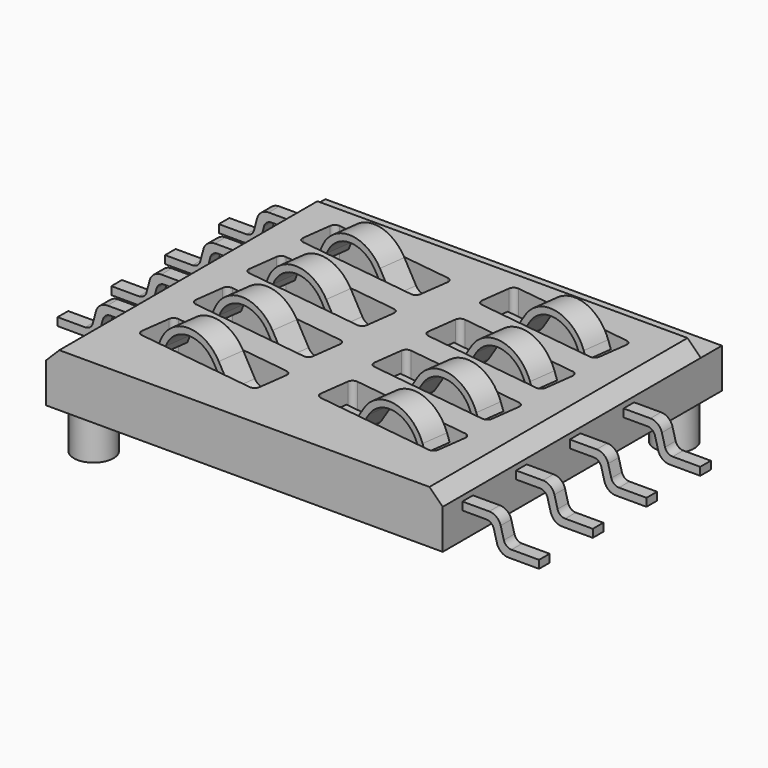
from build123d import *

# Parameters (mm, degrees)
SKETCH_W                = 15
SKETCH_H                = 13.2
PAD_DEPTH               = 2
SKETCH001_R             = 0.75
PAD001_DEPTH            = 1.6
SKETCH002_W             = 15
SKETCH002_H             = 2
POCKET_DEPTH            = 0.5
CHAMFER_SIZE            = 0.5
PAD018_DEPTH            = 0.25
PAD019_DEPTH            = 0.25
PAD020_DEPTH            = 0.25
PAD021_DEPTH            = 0.25
PAD022_DEPTH            = 0.25
BODY021_PLACEMENT_ANGLE = 180
PAD023_DEPTH            = 0.25
BODY022_PLACEMENT_ANGLE = 180
PAD024_DEPTH            = 0.25
BODY023_PLACEMENT_ANGLE = 180
PAD025_DEPTH            = 0.25
BODY024_PLACEMENT_ANGLE = 180
PAD026_DEPTH            = 0.5
BODY025_PLACEMENT_ANGLE = 352.5
PAD027_DEPTH            = 0.5
BODY026_PLACEMENT_ANGLE = 7.5
PAD028_DEPTH            = 0.5
BODY027_PLACEMENT_ANGLE = 7.5
PAD029_DEPTH            = 0.5
BODY028_PLACEMENT_ANGLE = 7.5
PAD030_DEPTH            = 0.5
BODY029_PLACEMENT_ANGLE = 187.5
PAD031_DEPTH            = 0.5
BODY030_PLACEMENT_ANGLE = 172.5
PAD032_DEPTH            = 0.5
BODY031_PLACEMENT_ANGLE = 172.5
PAD033_DEPTH            = 0.5
BODY032_PLACEMENT_ANGLE = 172.5


with BuildPart() as plasticblock_body:
    # Sketch → Pad (new body)
    with BuildSketch(Plane.XY):
        Rectangle(SKETCH_W, SKETCH_H)
        with BuildLine():
            Line((1.131849, -2.670943), (5.692495, -3.271363))
            ThreePointArc((5.864679, -3.495758), (5.825061, -3.3479), (5.692495, -3.271363))
            Line((5.864679, -3.495758), (5.7211, -4.586347))
            ThreePointArc((5.496706, -4.758531), (5.644564, -4.718912), (5.7211, -4.586347))
            Line((5.496706, -4.758531), (0.93606, -4.15811))
            ThreePointArc((0.763876, -3.933716), (0.803494, -4.081574), (0.93606, -4.15811))
            Line((0.763876, -3.933716), (0.907455, -2.843127))
            ThreePointArc((1.131849, -2.670943), (0.983992, -2.710561), (0.907455, -2.843127))
        make_face(mode=Mode.SUBTRACT)
        with BuildLine():
            Line((1.131849, -0.130943), (5.692495, -0.731363))
            ThreePointArc((5.864679, -0.955758), (5.825061, -0.8079), (5.692495, -0.731363))
            Line((5.864679, -0.955758), (5.7211, -2.046347))
            ThreePointArc((5.496706, -2.218531), (5.644564, -2.178912), (5.7211, -2.046347))
            Line((5.496706, -2.218531), (0.93606, -1.61811))
            ThreePointArc((0.763876, -1.393716), (0.803494, -1.541574), (0.93606, -1.61811))
            Line((0.763876, -1.393716), (0.907455, -0.303127))
            ThreePointArc((1.131849, -0.130943), (0.983992, -0.170561), (0.907455, -0.303127))
        make_face(mode=Mode.SUBTRACT)
        with BuildLine():
            Line((1.131849, 2.409057), (5.692495, 1.808637))
            ThreePointArc((5.864679, 1.584242), (5.825061, 1.7321), (5.692495, 1.808637))
            Line((5.864679, 1.584242), (5.7211, 0.493653))
            ThreePointArc((5.496706, 0.321469), (5.644564, 0.361088), (5.7211, 0.493653))
            Line((5.496706, 0.321469), (0.93606, 0.92189))
            ThreePointArc((0.763876, 1.146284), (0.803494, 0.998426), (0.93606, 0.92189))
            Line((0.763876, 1.146284), (0.907455, 2.236873))
            ThreePointArc((1.131849, 2.409057), (0.983992, 2.369439), (0.907455, 2.236873))
        make_face(mode=Mode.SUBTRACT)
        with BuildLine():
            Line((1.131849, 4.949057), (5.692495, 4.348637))
            ThreePointArc((5.864679, 4.124242), (5.825061, 4.2721), (5.692495, 4.348637))
            Line((5.864679, 4.124242), (5.7211, 3.033653))
            ThreePointArc((5.496706, 2.861469), (5.644564, 2.901088), (5.7211, 3.033653))
            Line((5.496706, 2.861469), (0.93606, 3.46189))
            ThreePointArc((0.763876, 3.686284), (0.803494, 3.538426), (0.93606, 3.46189))
            Line((0.763876, 3.686284), (0.907455, 4.776873))
            ThreePointArc((1.131849, 4.949057), (0.983992, 4.909439), (0.907455, 4.776873))
        make_face(mode=Mode.SUBTRACT)
        with BuildLine():
            Line((-5.496706, -2.841469), (-0.93606, -3.44189))
            ThreePointArc((-0.763876, -3.666284), (-0.803494, -3.518426), (-0.93606, -3.44189))
            Line((-0.763876, -3.666284), (-0.907455, -4.756873))
            ThreePointArc((-1.131849, -4.929057), (-0.983992, -4.889439), (-0.907455, -4.756873))
            Line((-1.131849, -4.929057), (-5.692495, -4.328637))
            ThreePointArc((-5.864679, -4.104242), (-5.825061, -4.2521), (-5.692495, -4.328637))
            Line((-5.864679, -4.104242), (-5.7211, -3.013653))
            ThreePointArc((-5.496706, -2.841469), (-5.644564, -2.881088), (-5.7211, -3.013653))
        make_face(mode=Mode.SUBTRACT)
        with BuildLine():
            Line((-5.496706, -0.301469), (-0.93606, -0.90189))
            ThreePointArc((-0.763876, -1.126284), (-0.803494, -0.978426), (-0.93606, -0.90189))
            Line((-0.763876, -1.126284), (-0.907455, -2.216873))
            ThreePointArc((-1.131849, -2.389057), (-0.983992, -2.349439), (-0.907455, -2.216873))
            Line((-1.131849, -2.389057), (-5.692495, -1.788637))
            ThreePointArc((-5.864679, -1.564242), (-5.825061, -1.7121), (-5.692495, -1.788637))
            Line((-5.864679, -1.564242), (-5.7211, -0.473653))
            ThreePointArc((-5.496706, -0.301469), (-5.644564, -0.341088), (-5.7211, -0.473653))
        make_face(mode=Mode.SUBTRACT)
        with BuildLine():
            Line((-5.496706, 2.238531), (-0.93606, 1.63811))
            ThreePointArc((-0.763876, 1.413716), (-0.803494, 1.561574), (-0.93606, 1.63811))
            Line((-0.763876, 1.413716), (-0.907455, 0.323127))
            ThreePointArc((-1.131849, 0.150943), (-0.983992, 0.190561), (-0.907455, 0.323127))
            Line((-1.131849, 0.150943), (-5.692495, 0.751363))
            ThreePointArc((-5.864679, 0.975758), (-5.825061, 0.8279), (-5.692495, 0.751363))
            Line((-5.864679, 0.975758), (-5.7211, 2.066347))
            ThreePointArc((-5.496706, 2.238531), (-5.644564, 2.198912), (-5.7211, 2.066347))
        make_face(mode=Mode.SUBTRACT)
        with BuildLine():
            Line((-5.496706, 4.778531), (-0.93606, 4.17811))
            ThreePointArc((-0.763876, 3.953716), (-0.803494, 4.101574), (-0.93606, 4.17811))
            Line((-0.763876, 3.953716), (-0.907455, 2.863127))
            ThreePointArc((-1.131849, 2.690943), (-0.983992, 2.730561), (-0.907455, 2.863127))
            Line((-1.131849, 2.690943), (-5.692495, 3.291363))
            ThreePointArc((-5.864679, 3.515758), (-5.825061, 3.3679), (-5.692495, 3.291363))
            Line((-5.864679, 3.515758), (-5.7211, 4.606347))
            ThreePointArc((-5.496706, 4.778531), (-5.644564, 4.738912), (-5.7211, 4.606347))
        make_face(mode=Mode.SUBTRACT)
    extrude(amount=PAD_DEPTH)

    # Sketch001 (on Face5 of Pad) → Pad001 (join)
    with BuildSketch(Plane(origin=(0, 0, 0), x_dir=(1, 0, 0), z_dir=(0, 0, -1))):
        with Locations((6.5, -5.6)):
            Circle(SKETCH001_R)
        with Locations((-6.5, 5.6)):
            Circle(SKETCH001_R)
    extrude(amount=PAD001_DEPTH)

    # Sketch002 (on Face5 of Pad001) → Pocket (cut)
    with BuildSketch(Plane.XY.offset(2)):
        with Locations((0, 6.6)):
            Rectangle(SKETCH002_W, SKETCH002_H)
    extrude(amount=-POCKET_DEPTH, mode=Mode.SUBTRACT)

    # Chamfer
    chamfer_edges = [plasticblock_body.edges().sort_by_distance(p)[0] for p in [
        (7.5, -0.5, 2),
        (-7.5, -0.5, 2),
    ]]
    chamfer(chamfer_edges, length=CHAMFER_SIZE)


with BuildPart() as pin1:
    # Sketch019 → Pad018 (new body, symmetric)
    with BuildSketch(Plane.XZ):
        with BuildLine():
            Line((0, 1), (0.9, 1))
            ThreePointArc((1.189778, 0.777646), (1.082628, 0.938006), (0.9, 1))
            Line((1.189778, 0.777646), (1.308778, 0.333531))
            ThreePointArc((1.308778, 0.333531), (1.469502, 0.092991), (1.743444, 0))
            Line((1.743444, 0), (2.9, 0))
            Line((2.9, 0), (2.9, 0.3))
            Line((2.9, 0.3), (1.858543, 0.3))
            ThreePointArc((1.568766, 0.522354), (1.675915, 0.361994), (1.858543, 0.3))
            Line((1.568766, 0.522354), (1.449766, 0.966469))
            ThreePointArc((1.449766, 0.966469), (1.289042, 1.207009), (1.015099, 1.3))
            Line((1.015099, 1.3), (0, 1.3))
            Line((0, 1.3), (0, 1))
        make_face()
    extrude(amount=PAD018_DEPTH, both=True)


with BuildPart() as pin1_1:
    # Body017 placement: moved
    add(pin1.part.moved(Location((7.5, -5.42, 0))))


with BuildPart() as pin2:
    # Sketch020 → Pad019 (new body, symmetric)
    with BuildSketch(Plane.XZ):
        with BuildLine():
            Line((0, 1), (0.9, 1))
            ThreePointArc((1.189778, 0.777646), (1.082628, 0.938006), (0.9, 1))
            Line((1.189778, 0.777646), (1.308778, 0.333531))
            ThreePointArc((1.308778, 0.333531), (1.469502, 0.092991), (1.743444, 0))
            Line((1.743444, 0), (2.9, 0))
            Line((2.9, 0), (2.9, 0.3))
            Line((2.9, 0.3), (1.858543, 0.3))
            ThreePointArc((1.568766, 0.522354), (1.675915, 0.361994), (1.858543, 0.3))
            Line((1.568766, 0.522354), (1.449766, 0.966469))
            ThreePointArc((1.449766, 0.966469), (1.289042, 1.207009), (1.015099, 1.3))
            Line((1.015099, 1.3), (0, 1.3))
            Line((0, 1.3), (0, 1))
        make_face()
    extrude(amount=PAD019_DEPTH, both=True)


with BuildPart() as pin2_1:
    # Body018 placement: moved
    add(pin2.part.moved(Location((7.5, -2.88, 0))))


with BuildPart() as pin3:
    # Sketch021 → Pad020 (new body, symmetric)
    with BuildSketch(Plane.XZ):
        with BuildLine():
            Line((0, 1), (0.9, 1))
            ThreePointArc((1.189778, 0.777646), (1.082628, 0.938006), (0.9, 1))
            Line((1.189778, 0.777646), (1.308778, 0.333531))
            ThreePointArc((1.308778, 0.333531), (1.469502, 0.092991), (1.743444, 0))
            Line((1.743444, 0), (2.9, 0))
            Line((2.9, 0), (2.9, 0.3))
            Line((2.9, 0.3), (1.858543, 0.3))
            ThreePointArc((1.568766, 0.522354), (1.675915, 0.361994), (1.858543, 0.3))
            Line((1.568766, 0.522354), (1.449766, 0.966469))
            ThreePointArc((1.449766, 0.966469), (1.289042, 1.207009), (1.015099, 1.3))
            Line((1.015099, 1.3), (0, 1.3))
            Line((0, 1.3), (0, 1))
        make_face()
    extrude(amount=PAD020_DEPTH, both=True)


with BuildPart() as pin3_1:
    # Body019 placement: moved
    add(pin3.part.moved(Location((7.5, -0.34, 0))))


with BuildPart() as pin4:
    # Sketch022 → Pad021 (new body, symmetric)
    with BuildSketch(Plane.XZ):
        with BuildLine():
            Line((0, 1), (0.9, 1))
            ThreePointArc((1.189778, 0.777646), (1.082628, 0.938006), (0.9, 1))
            Line((1.189778, 0.777646), (1.308778, 0.333531))
            ThreePointArc((1.308778, 0.333531), (1.469502, 0.092991), (1.743444, 0))
            Line((1.743444, 0), (2.9, 0))
            Line((2.9, 0), (2.9, 0.3))
            Line((2.9, 0.3), (1.858543, 0.3))
            ThreePointArc((1.568766, 0.522354), (1.675915, 0.361994), (1.858543, 0.3))
            Line((1.568766, 0.522354), (1.449766, 0.966469))
            ThreePointArc((1.449766, 0.966469), (1.289042, 1.207009), (1.015099, 1.3))
            Line((1.015099, 1.3), (0, 1.3))
            Line((0, 1.3), (0, 1))
        make_face()
    extrude(amount=PAD021_DEPTH, both=True)


with BuildPart() as pin4_1:
    # Body020 placement: moved
    add(pin4.part.moved(Location((7.5, 2.2, 0))))


with BuildPart() as pin5:
    # Sketch023 → Pad022 (new body, symmetric)
    with BuildSketch(Plane.XZ):
        with BuildLine():
            Line((0, 1), (0.9, 1))
            ThreePointArc((1.189778, 0.777646), (1.082628, 0.938006), (0.9, 1))
            Line((1.189778, 0.777646), (1.308778, 0.333531))
            ThreePointArc((1.308778, 0.333531), (1.469502, 0.092991), (1.743444, 0))
            Line((1.743444, 0), (2.9, 0))
            Line((2.9, 0), (2.9, 0.3))
            Line((2.9, 0.3), (1.858543, 0.3))
            ThreePointArc((1.568766, 0.522354), (1.675915, 0.361994), (1.858543, 0.3))
            Line((1.568766, 0.522354), (1.449766, 0.966469))
            ThreePointArc((1.449766, 0.966469), (1.289042, 1.207009), (1.015099, 1.3))
            Line((1.015099, 1.3), (0, 1.3))
            Line((0, 1.3), (0, 1))
        make_face()
    extrude(amount=PAD022_DEPTH, both=True)


with BuildPart() as pin5_1:
    # Body021 placement: moved
    add(pin5.part.moved(Location((-7.5, -2.18, 0))).rotate(Axis((-7.5, -2.18, 0), (0, 0, 1)), BODY021_PLACEMENT_ANGLE))


with BuildPart() as pin6:
    # Sketch024 → Pad023 (new body, symmetric)
    with BuildSketch(Plane.XZ):
        with BuildLine():
            Line((0, 1), (0.9, 1))
            ThreePointArc((1.189778, 0.777646), (1.082628, 0.938006), (0.9, 1))
            Line((1.189778, 0.777646), (1.308778, 0.333531))
            ThreePointArc((1.308778, 0.333531), (1.469502, 0.092991), (1.743444, 0))
            Line((1.743444, 0), (2.9, 0))
            Line((2.9, 0), (2.9, 0.3))
            Line((2.9, 0.3), (1.858543, 0.3))
            ThreePointArc((1.568766, 0.522354), (1.675915, 0.361994), (1.858543, 0.3))
            Line((1.568766, 0.522354), (1.449766, 0.966469))
            ThreePointArc((1.449766, 0.966469), (1.289042, 1.207009), (1.015099, 1.3))
            Line((1.015099, 1.3), (0, 1.3))
            Line((0, 1.3), (0, 1))
        make_face()
    extrude(amount=PAD023_DEPTH, both=True)


with BuildPart() as pin6_1:
    # Body022 placement: moved
    add(pin6.part.moved(Location((-7.5, 0.36, 0))).rotate(Axis((-7.5, 0.36, 0), (0, 0, 1)), BODY022_PLACEMENT_ANGLE))


with BuildPart() as pin7:
    # Sketch025 → Pad024 (new body, symmetric)
    with BuildSketch(Plane.XZ):
        with BuildLine():
            Line((0, 1), (0.9, 1))
            ThreePointArc((1.189778, 0.777646), (1.082628, 0.938006), (0.9, 1))
            Line((1.189778, 0.777646), (1.308778, 0.333531))
            ThreePointArc((1.308778, 0.333531), (1.469502, 0.092991), (1.743444, 0))
            Line((1.743444, 0), (2.9, 0))
            Line((2.9, 0), (2.9, 0.3))
            Line((2.9, 0.3), (1.858543, 0.3))
            ThreePointArc((1.568766, 0.522354), (1.675915, 0.361994), (1.858543, 0.3))
            Line((1.568766, 0.522354), (1.449766, 0.966469))
            ThreePointArc((1.449766, 0.966469), (1.289042, 1.207009), (1.015099, 1.3))
            Line((1.015099, 1.3), (0, 1.3))
            Line((0, 1.3), (0, 1))
        make_face()
    extrude(amount=PAD024_DEPTH, both=True)


with BuildPart() as pin7_1:
    # Body023 placement: moved
    add(pin7.part.moved(Location((-7.5, 2.9, 0))).rotate(Axis((-7.5, 2.9, 0), (0, 0, 1)), BODY023_PLACEMENT_ANGLE))


with BuildPart() as pin8:
    # Sketch026 → Pad025 (new body, symmetric)
    with BuildSketch(Plane.XZ):
        with BuildLine():
            Line((0, 1), (0.9, 1))
            ThreePointArc((1.189778, 0.777646), (1.082628, 0.938006), (0.9, 1))
            Line((1.189778, 0.777646), (1.308778, 0.333531))
            ThreePointArc((1.308778, 0.333531), (1.469502, 0.092991), (1.743444, 0))
            Line((1.743444, 0), (2.9, 0))
            Line((2.9, 0), (2.9, 0.3))
            Line((2.9, 0.3), (1.858543, 0.3))
            ThreePointArc((1.568766, 0.522354), (1.675915, 0.361994), (1.858543, 0.3))
            Line((1.568766, 0.522354), (1.449766, 0.966469))
            ThreePointArc((1.449766, 0.966469), (1.289042, 1.207009), (1.015099, 1.3))
            Line((1.015099, 1.3), (0, 1.3))
            Line((0, 1.3), (0, 1))
        make_face()
    extrude(amount=PAD025_DEPTH, both=True)


with BuildPart() as pin8_1:
    # Body024 placement: moved
    add(pin8.part.moved(Location((-7.5, 5.44, 0))).rotate(Axis((-7.5, 5.44, 0), (0, 0, 1)), BODY024_PLACEMENT_ANGLE))


with BuildPart() as springcontact5:
    # Sketch027 → Pad026 (new body, symmetric)
    with BuildSketch(Plane.XZ):
        with BuildLine():
            Line((2.336739, 1.282811), (2.835603, 2.029241))
            ThreePointArc((4.893073, 1.825782), (3.925332, 2.544311), (2.835603, 2.029241))
            Line((4.893073, 1.825782), (5.00769, 1.548541))
            Line((5.00769, 1.548541), (5.238725, 1.644055))
            Line((5.238725, 1.644055), (5.124108, 1.921297))
            ThreePointArc((5.124108, 1.921297), (3.949934, 2.793098), (2.627751, 2.168156))
            Line((2.128886, 1.421726), (2.627751, 2.168156))
            ThreePointArc((1.807568, 1.25), (1.989732, 1.295625), (2.128886, 1.421726))
            Line((0, 1.25), (1.807568, 1.25))
            Line((0, 1), (0, 1.25))
            Line((0, 1), (1.807568, 1))
            ThreePointArc((1.807568, 1), (2.10757, 1.075138), (2.336739, 1.282811))
        make_face()
    extrude(amount=PAD026_DEPTH, both=True)


with BuildPart() as springcontact5_1:
    # Body025 placement: moved
    add(springcontact5.part.moved(Location((0, -3.28, 0))).rotate(Axis((0, -3.28, 0), (0, 0, 1)), BODY025_PLACEMENT_ANGLE))


with BuildPart() as springcontact6:
    # Sketch028 → Pad027 (new body, symmetric)
    with BuildSketch(Plane.XZ):
        with BuildLine():
            Line((2.336739, 1.282811), (2.835603, 2.029241))
            ThreePointArc((4.893073, 1.825782), (3.925332, 2.544311), (2.835603, 2.029241))
            Line((4.893073, 1.825782), (5.00769, 1.548541))
            Line((5.00769, 1.548541), (5.238725, 1.644055))
            Line((5.238725, 1.644055), (5.124108, 1.921297))
            ThreePointArc((5.124108, 1.921297), (3.949934, 2.793098), (2.627751, 2.168156))
            Line((2.128886, 1.421726), (2.627751, 2.168156))
            ThreePointArc((1.807568, 1.25), (1.989732, 1.295625), (2.128886, 1.421726))
            Line((0, 1.25), (1.807568, 1.25))
            Line((0, 1), (0, 1.25))
            Line((0, 1), (1.807568, 1))
            ThreePointArc((1.807568, 1), (2.10757, 1.075138), (2.336739, 1.282811))
        make_face()
    extrude(amount=PAD027_DEPTH, both=True)


with BuildPart() as springcontact6_1:
    # Body026 placement: moved
    add(springcontact6.part.moved(Location((0, -0.74, 0))).rotate(Axis((0, -0.74, 0), (0, 0, -1)), BODY026_PLACEMENT_ANGLE))


with BuildPart() as springcontact7:
    # Sketch029 → Pad028 (new body, symmetric)
    with BuildSketch(Plane.XZ):
        with BuildLine():
            Line((2.336739, 1.282811), (2.835603, 2.029241))
            ThreePointArc((4.893073, 1.825782), (3.925332, 2.544311), (2.835603, 2.029241))
            Line((4.893073, 1.825782), (5.00769, 1.548541))
            Line((5.00769, 1.548541), (5.238725, 1.644055))
            Line((5.238725, 1.644055), (5.124108, 1.921297))
            ThreePointArc((5.124108, 1.921297), (3.949934, 2.793098), (2.627751, 2.168156))
            Line((2.128886, 1.421726), (2.627751, 2.168156))
            ThreePointArc((1.807568, 1.25), (1.989732, 1.295625), (2.128886, 1.421726))
            Line((0, 1.25), (1.807568, 1.25))
            Line((0, 1), (0, 1.25))
            Line((0, 1), (1.807568, 1))
            ThreePointArc((1.807568, 1), (2.10757, 1.075138), (2.336739, 1.282811))
        make_face()
    extrude(amount=PAD028_DEPTH, both=True)


with BuildPart() as springcontact7_1:
    # Body027 placement: moved
    add(springcontact7.part.moved(Location((0, 1.8, 0))).rotate(Axis((0, 1.8, 0), (0, 0, -1)), BODY027_PLACEMENT_ANGLE))


with BuildPart() as springcontact8:
    # Sketch030 → Pad029 (new body, symmetric)
    with BuildSketch(Plane.XZ):
        with BuildLine():
            Line((2.336739, 1.282811), (2.835603, 2.029241))
            ThreePointArc((4.893073, 1.825782), (3.925332, 2.544311), (2.835603, 2.029241))
            Line((4.893073, 1.825782), (5.00769, 1.548541))
            Line((5.00769, 1.548541), (5.238725, 1.644055))
            Line((5.238725, 1.644055), (5.124108, 1.921297))
            ThreePointArc((5.124108, 1.921297), (3.949934, 2.793098), (2.627751, 2.168156))
            Line((2.128886, 1.421726), (2.627751, 2.168156))
            ThreePointArc((1.807568, 1.25), (1.989732, 1.295625), (2.128886, 1.421726))
            Line((0, 1.25), (1.807568, 1.25))
            Line((0, 1), (0, 1.25))
            Line((0, 1), (1.807568, 1))
            ThreePointArc((1.807568, 1), (2.10757, 1.075138), (2.336739, 1.282811))
        make_face()
    extrude(amount=PAD029_DEPTH, both=True)


with BuildPart() as springcontact8_1:
    # Body028 placement: moved
    add(springcontact8.part.moved(Location((0, 4.34, 0))).rotate(Axis((0, 4.34, 0), (0, 0, -1)), BODY028_PLACEMENT_ANGLE))


with BuildPart() as springcontact1:
    # Sketch031 → Pad030 (new body, symmetric)
    with BuildSketch(Plane.XZ):
        with BuildLine():
            Line((2.336739, 1.282811), (2.835603, 2.029241))
            ThreePointArc((4.893073, 1.825782), (3.925332, 2.544311), (2.835603, 2.029241))
            Line((4.893073, 1.825782), (5.00769, 1.548541))
            Line((5.00769, 1.548541), (5.238725, 1.644055))
            Line((5.238725, 1.644055), (5.124108, 1.921297))
            ThreePointArc((5.124108, 1.921297), (3.949934, 2.793098), (2.627751, 2.168156))
            Line((2.128886, 1.421726), (2.627751, 2.168156))
            ThreePointArc((1.807568, 1.25), (1.989732, 1.295625), (2.128886, 1.421726))
            Line((0, 1.25), (1.807568, 1.25))
            Line((0, 1), (0, 1.25))
            Line((0, 1), (1.807568, 1))
            ThreePointArc((1.807568, 1), (2.10757, 1.075138), (2.336739, 1.282811))
        make_face()
    extrude(amount=PAD030_DEPTH, both=True)


with BuildPart() as springcontact1_1:
    # Body029 placement: moved
    add(springcontact1.part.moved(Location((0, -4.32, 0))).rotate(Axis((0, -4.32, 0), (0, 0, -1)), BODY029_PLACEMENT_ANGLE))


with BuildPart() as springcontact2:
    # Sketch032 → Pad031 (new body, symmetric)
    with BuildSketch(Plane.XZ):
        with BuildLine():
            Line((2.336739, 1.282811), (2.835603, 2.029241))
            ThreePointArc((4.893073, 1.825782), (3.925332, 2.544311), (2.835603, 2.029241))
            Line((4.893073, 1.825782), (5.00769, 1.548541))
            Line((5.00769, 1.548541), (5.238725, 1.644055))
            Line((5.238725, 1.644055), (5.124108, 1.921297))
            ThreePointArc((5.124108, 1.921297), (3.949934, 2.793098), (2.627751, 2.168156))
            Line((2.128886, 1.421726), (2.627751, 2.168156))
            ThreePointArc((1.807568, 1.25), (1.989732, 1.295625), (2.128886, 1.421726))
            Line((0, 1.25), (1.807568, 1.25))
            Line((0, 1), (0, 1.25))
            Line((0, 1), (1.807568, 1))
            ThreePointArc((1.807568, 1), (2.10757, 1.075138), (2.336739, 1.282811))
        make_face()
    extrude(amount=PAD031_DEPTH, both=True)


with BuildPart() as springcontact2_1:
    # Body030 placement: moved
    add(springcontact2.part.moved(Location((0, -1.78, 0))).rotate(Axis((0, -1.78, 0), (0, 0, 1)), BODY030_PLACEMENT_ANGLE))


with BuildPart() as springcontact3:
    # Sketch033 → Pad032 (new body, symmetric)
    with BuildSketch(Plane.XZ):
        with BuildLine():
            Line((2.336739, 1.282811), (2.835603, 2.029241))
            ThreePointArc((4.893073, 1.825782), (3.925332, 2.544311), (2.835603, 2.029241))
            Line((4.893073, 1.825782), (5.00769, 1.548541))
            Line((5.00769, 1.548541), (5.238725, 1.644055))
            Line((5.238725, 1.644055), (5.124108, 1.921297))
            ThreePointArc((5.124108, 1.921297), (3.949934, 2.793098), (2.627751, 2.168156))
            Line((2.128886, 1.421726), (2.627751, 2.168156))
            ThreePointArc((1.807568, 1.25), (1.989732, 1.295625), (2.128886, 1.421726))
            Line((0, 1.25), (1.807568, 1.25))
            Line((0, 1), (0, 1.25))
            Line((0, 1), (1.807568, 1))
            ThreePointArc((1.807568, 1), (2.10757, 1.075138), (2.336739, 1.282811))
        make_face()
    extrude(amount=PAD032_DEPTH, both=True)


with BuildPart() as springcontact3_1:
    # Body031 placement: moved
    add(springcontact3.part.moved(Location((0, 0.76, 0))).rotate(Axis((0, 0.76, 0), (0, 0, 1)), BODY031_PLACEMENT_ANGLE))


with BuildPart() as springcontact4:
    # Sketch034 → Pad033 (new body, symmetric)
    with BuildSketch(Plane.XZ):
        with BuildLine():
            Line((2.336739, 1.282811), (2.835603, 2.029241))
            ThreePointArc((4.893073, 1.825782), (3.925332, 2.544311), (2.835603, 2.029241))
            Line((4.893073, 1.825782), (5.00769, 1.548541))
            Line((5.00769, 1.548541), (5.238725, 1.644055))
            Line((5.238725, 1.644055), (5.124108, 1.921297))
            ThreePointArc((5.124108, 1.921297), (3.949934, 2.793098), (2.627751, 2.168156))
            Line((2.128886, 1.421726), (2.627751, 2.168156))
            ThreePointArc((1.807568, 1.25), (1.989732, 1.295625), (2.128886, 1.421726))
            Line((0, 1.25), (1.807568, 1.25))
            Line((0, 1), (0, 1.25))
            Line((0, 1), (1.807568, 1))
            ThreePointArc((1.807568, 1), (2.10757, 1.075138), (2.336739, 1.282811))
        make_face()
    extrude(amount=PAD033_DEPTH, both=True)


with BuildPart() as springcontact4_1:
    # Body032 placement: moved
    add(springcontact4.part.moved(Location((0, 3.3, 0))).rotate(Axis((0, 3.3, 0), (0, 0, 1)), BODY032_PLACEMENT_ANGLE))


solid = Compound([plasticblock_body.part, pin1_1.part, pin2_1.part, pin3_1.part, pin4_1.part, pin5_1.part, pin6_1.part, pin7_1.part, pin8_1.part, springcontact5_1.part, springcontact6_1.part, springcontact7_1.part, springcontact8_1.part, springcontact1_1.part, springcontact2_1.part, springcontact3_1.part, springcontact4_1.part])
